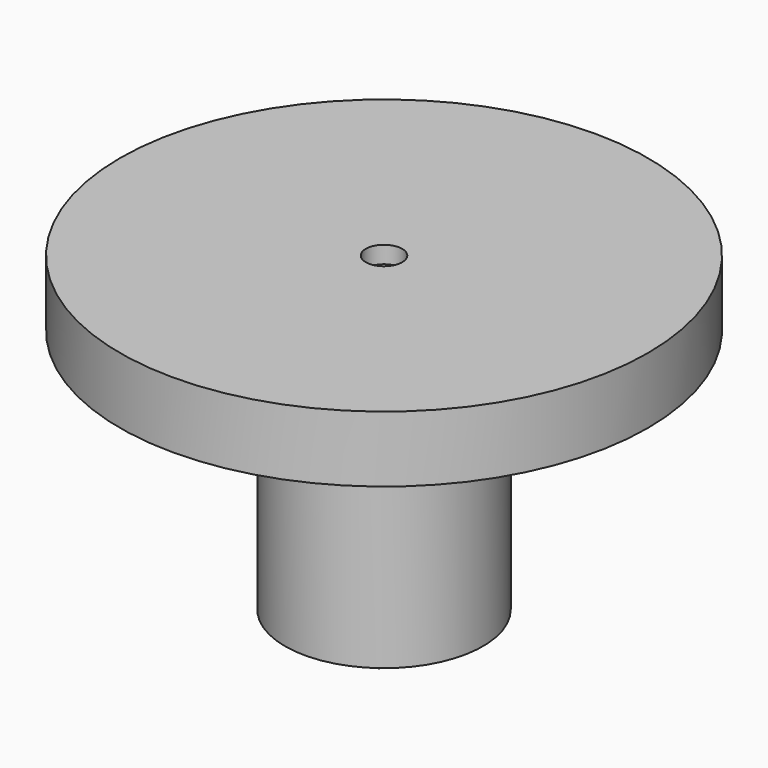
from build123d import *

# Parameters (mm, degrees)
F2_W     = 28.1
F2_H     = 93.0125
F7_DEPTH = 9.525


with BuildPart() as f1:
    # F0 (on Front) → F1 (revolve)
    with BuildSketch(Plane.XZ):
        Polygon((-7, 50.8), (-101.6, 50.8), (-101.6, 25.4), (-9, 25.4), (-9, 32.4), (-7, 32.4), align=None)
    revolve(axis=Axis((0, 0, 0), (0, 0, -1)))


with BuildPart() as f3:
    # F2 (on Front) → F3 (revolve)
    with BuildSketch(Plane.XZ):
        with Locations((-24.05, -22.69375)):
            Rectangle(F2_W, F2_H)
    revolve(axis=Axis((0, 0, 0), (0, 0, -1)))


with BuildPart() as f5:
    # F4 (on Front) → F5 (revolve)
    with BuildSketch(Plane.XZ):
        Polygon((0, -73.9625), (0, 44.2125), (-7, 44.2125), (-7, -70.7875), (-14, -70.7875), (-14, -73.9625), align=None)
    revolve(axis=Axis((0, 0, -14.875), (0, 0, -1)))

    # F6 (on face) → F7 (join)
    with BuildSketch(Plane(origin=(0, 0, -73.9625), x_dir=(1, 0, 0), z_dir=(0, 0, -1))):
        Polygon((5.484828, 9.5), (-5.484828, 9.5), (-10.969655, 0), (-5.484828, -9.5), (5.484828, -9.5), (10.969655, 0), align=None)
    extrude(amount=F7_DEPTH)


with BuildPart() as f9:
    # F8 (on Front) → F9 (revolve)
    with BuildSketch(Plane.XZ):
        Polygon((-7.25, 9.8125), (-7.25, 29.4), (-8.764969, 29.4), (-8.9746, 25.4), (-15, 25.4), (-15, 23.8125), (-10, 23.8125), (-9.9746, 23.8125), (-9.240891, 9.8125), align=None)
    revolve(axis=Axis((0, 0, 0), (0, 0, -1)))


with BuildPart() as f11:
    # F10 (on Front) → F11 (revolve)
    with BuildSketch(Plane.XZ):
        Polygon((-8.926444, -49.2), (-9.9746, -69.2), (-20, -69.2), (-20, -73.9625), (-14.25, -73.9625), (-14.25, -70.7875), (-7.25, -70.7875), (-7.25, -49.2), align=None)
    revolve(axis=Axis((0, 0, -14.875), (0, 0, -1)))


solid = Compound([f1.part, f3.part, f5.part, f9.part, f11.part])
